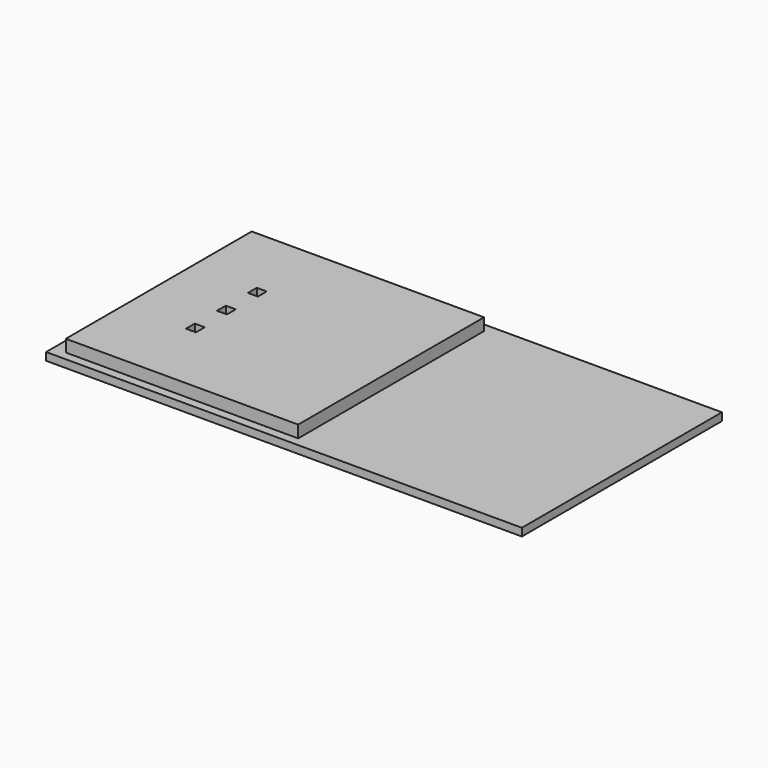
from build123d import *

# Parameters (mm, degrees)
F0_W     = 43
F0_H     = 22.6
F0_W_2   = 0.9
F0_H_2   = 1
F1_DEPTH = 0.7
F2_W     = 21
F2_H     = 21
F2_W_2   = 0.9
F2_H_2   = 1
F3_DEPTH = 1.1


with BuildPart() as f1:
    # F0 (on Top) → F1 (new body)
    with BuildSketch(Plane.XY):
        Rectangle(F0_W, F0_H)
        with Locations((-14.25, -3.5)):
            Rectangle(F0_W_2, F0_H_2, mode=Mode.SUBTRACT)
        with Locations((-14.25, 0)):
            Rectangle(F0_W_2, F0_H_2, mode=Mode.SUBTRACT)
        with Locations((-14.25, 3.5)):
            Rectangle(F0_W_2, F0_H_2, mode=Mode.SUBTRACT)
    extrude(amount=-F1_DEPTH)

    # F2 (on face) → F3 (join)
    with BuildSketch(Plane.XY):
        with Locations((-9.858179, 0)):
            Rectangle(F2_W, F2_H)
        with Locations((-14.25, -3.5)):
            Rectangle(F2_W_2, F2_H_2, mode=Mode.SUBTRACT)
        with Locations((-14.25, 0)):
            Rectangle(F2_W_2, F2_H_2, mode=Mode.SUBTRACT)
        with Locations((-14.25, 3.5)):
            Rectangle(F2_W_2, F2_H_2, mode=Mode.SUBTRACT)
    extrude(amount=F3_DEPTH)


solid = f1.part
